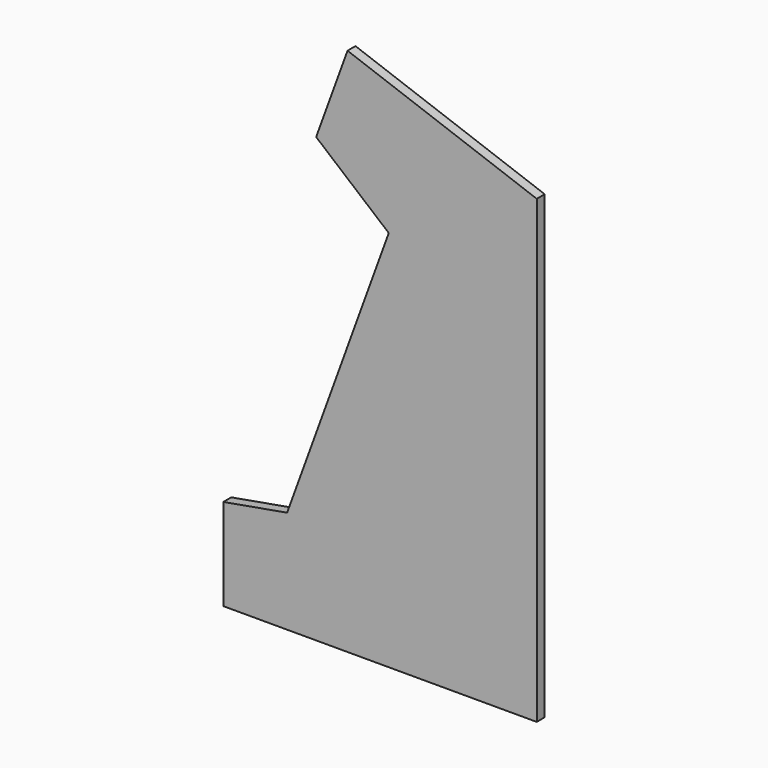
from build123d import *

# Parameters (mm, degrees)
PAD_DEPTH = 13


with BuildPart() as part:
    # Sketch → Pad (new body)
    with BuildSketch(Plane.XZ):
        Polygon((0, 0), (280, 0), (280, 445.460485), (280, 602.368169), (32.503594, 692.449494), (-8.538824, 579.68638), (86.427706, 500), (-46.523657, 134.719131), (-130, 120), (-130, 0), align=None)
    extrude(amount=-PAD_DEPTH)


solid = part.part
